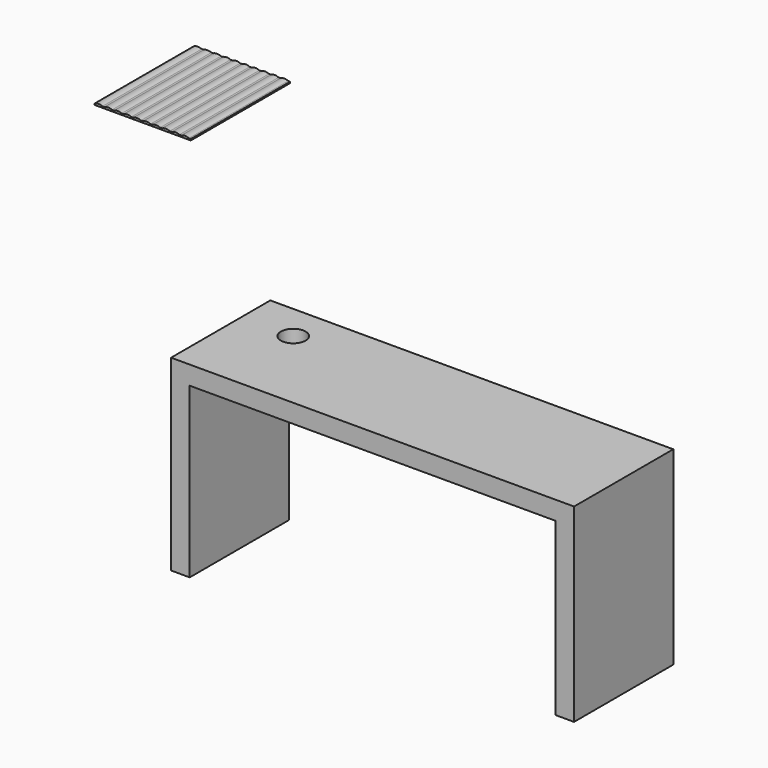
from build123d import *

# Parameters (mm, degrees)
F1_DEPTH = 25.4
F2_R     = 2.526213
F3_DEPTH = 63.5
F5_DEPTH = 25.4


with BuildPart() as f1:
    # F0 (on Front) → F1 (new body)
    with BuildSketch(Plane.XZ):
        Polygon((-57.312333, -6.03829), (-57.312333, -44.415379), (-53.502333, -44.415379), (-53.502333, -9.84829), (21.40059, -9.84829), (21.40059, -44.874332), (25.21059, -44.874332), (25.21059, -6.03829), align=None)
    extrude(amount=F1_DEPTH)

    # F2 (on Top) → F3 (cut, symmetric)
    with BuildSketch(Plane.XY):
        with Locations((-46.731681, -7.355898)):
            Circle(F2_R)
    extrude(amount=F3_DEPTH, both=True, mode=Mode.SUBTRACT)


with BuildPart() as f5:
    # F4 (on Front) → F5 (new body)
    with BuildSketch(Plane.XZ):
        with BuildLine():
            Line((-68.94927, 36.405666), (-69.342486, 36.405666))
            ThreePointArc((-69.342486, 36.405666), (-70.130128, 36.58409), (-70.91777, 36.405666))
            Line((-70.91777, 36.405666), (-70.91777, 36.11923))
            Line((-70.91777, 36.11923), (-51.248737, 36.11923))
            Line((-51.248737, 36.11923), (-51.232536, 36.405666))
            Line((-51.232536, 36.405666), (-51.625986, 36.405666))
            ThreePointArc((-51.625986, 36.405666), (-52.413628, 36.58409), (-53.20127, 36.405666))
            Line((-53.20127, 36.405666), (-53.594486, 36.405666))
            ThreePointArc((-53.594486, 36.405666), (-54.382128, 36.58409), (-55.16977, 36.405666))
            Line((-55.16977, 36.405666), (-55.562986, 36.405666))
            ThreePointArc((-55.562986, 36.405666), (-56.350628, 36.58409), (-57.13827, 36.405666))
            Line((-57.13827, 36.405666), (-57.531486, 36.405666))
            ThreePointArc((-57.531486, 36.405666), (-58.319128, 36.58409), (-59.10677, 36.405666))
            Line((-59.10677, 36.405666), (-59.499986, 36.405666))
            ThreePointArc((-59.499986, 36.405666), (-60.287628, 36.58409), (-61.07527, 36.405666))
            Line((-61.07527, 36.405666), (-61.468486, 36.405666))
            ThreePointArc((-61.468486, 36.405666), (-62.256128, 36.58409), (-63.04377, 36.405666))
            Line((-63.04377, 36.405666), (-63.436986, 36.405666))
            ThreePointArc((-63.436986, 36.405666), (-64.224628, 36.58409), (-65.01227, 36.405666))
            Line((-65.01227, 36.405666), (-65.405486, 36.405666))
            ThreePointArc((-65.405486, 36.405666), (-66.193128, 36.58409), (-66.98077, 36.405666))
            Line((-66.98077, 36.405666), (-67.373986, 36.405666))
            ThreePointArc((-67.373986, 36.405666), (-68.161628, 36.58409), (-68.94927, 36.405666))
        make_face()
    extrude(amount=F5_DEPTH)


with BuildPart() as f5_1:
    # F6: moved
    add(f5.part.moved(Location((0, -2.54, 0))))


solid = Compound([f1.part, f5_1.part])
